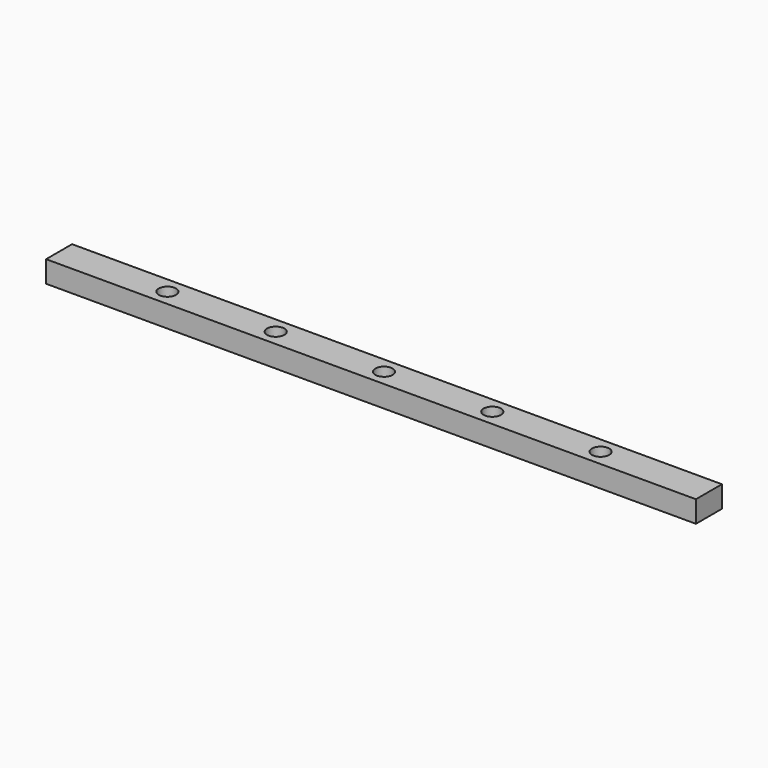
from build123d import *

# Parameters (mm, degrees)
SKETCH_W  = 300
SKETCH_H  = 15
SKETCH_R  = 4
PAD_DEPTH = 10


with BuildPart() as part:
    # Sketch → Pad (new body)
    with BuildSketch(Plane.XY):
        with Locations((150, 7.5)):
            Rectangle(SKETCH_W, SKETCH_H)
        with Locations((50, 7.5)):
            Circle(SKETCH_R, mode=Mode.SUBTRACT)
        with Locations((100, 7.5)):
            Circle(SKETCH_R, mode=Mode.SUBTRACT)
        with Locations((150, 7.5)):
            Circle(SKETCH_R, mode=Mode.SUBTRACT)
        with Locations((200, 7.5)):
            Circle(SKETCH_R, mode=Mode.SUBTRACT)
        with Locations((250, 7.5)):
            Circle(SKETCH_R, mode=Mode.SUBTRACT)
    extrude(amount=PAD_DEPTH)


solid = part.part
